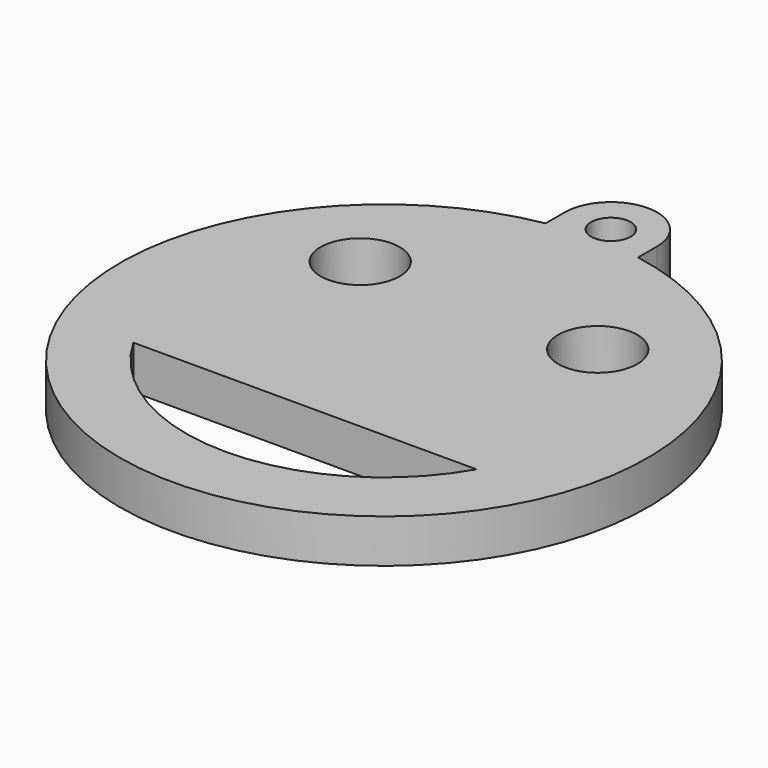
from build123d import *

# Parameters (mm, degrees)
EXTRUDE_DEPTH   = 3.3
SKETCH001_R     = 1.5
POCKET_DEPTH    = 3.301
SKETCH002_R     = 3
POCKET001_DEPTH = 5


with BuildPart() as part:
    # Sketch → Extrude (new body)
    with BuildSketch(Plane.XY):
        with BuildLine():
            ThreePointArc((3.5, 21.5), (0, 25), (-3.5, 21.5))
            Line((-3.5, 21.5), (-3.5, 19.691369))
            ThreePointArc((-3.5, 19.691369), (0, -20), (3.5, 19.691369))
            Line((3.5, 19.691369), (3.5, 21.5))
        make_face()
    extrude(amount=EXTRUDE_DEPTH)

    # Sketch001 (on Face6 of Extrude) → Pocket (cut, through all)
    with BuildSketch(Plane.XY.offset(3.3)):
        with Locations((0, 21.5)):
            Circle(SKETCH001_R)
    extrude(amount=-POCKET_DEPTH, mode=Mode.SUBTRACT)

    # Sketch002 → Pocket001 (cut)
    with BuildSketch(Plane.XY.offset(3.3)):
        with Locations((-9, 9)):
            Circle(SKETCH002_R)
        with Locations((9, 9)):
            Circle(SKETCH002_R)
        with BuildLine():
            Line((-13, -7.483315), (13, -7.483315))
            ThreePointArc((-13, -7.483315), (0, -15), (13, -7.483315))
        make_face()
    extrude(amount=-POCKET001_DEPTH, mode=Mode.SUBTRACT)


solid = part.part
